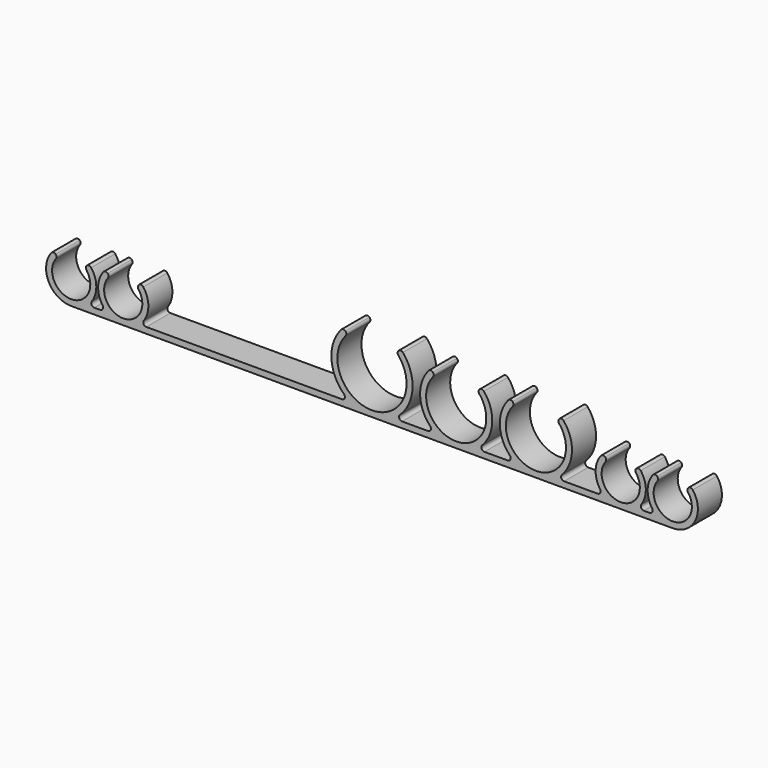
from build123d import *

# Parameters (mm, degrees)
F1_DEPTH = 10


with BuildPart() as f1:
    # F0 (on Front) → F1 (new body)
    with BuildSketch(Plane.XZ):
        with BuildLine():
            Line((-100, 0), (0, 0))
            Line((0, 0), (100, 0))
            ThreePointArc((100, 0), (107.478558, 4.636017), (106.652751, 13.396128))
            ThreePointArc((106.652751, 13.396128), (105.9242, 13.789474), (105.148908, 13.498908))
            ThreePointArc((105.148908, 13.498908), (104.858342, 12.859987), (105.059278, 12.187474))
            ThreePointArc((105.059278, 12.187474), (100, 2), (94.940722, 12.187474))
            ThreePointArc((94.940722, 12.187474), (95.141658, 12.859987), (94.851092, 13.498908))
            ThreePointArc((94.851092, 13.498908), (94.0758, 13.789474), (93.347249, 13.396128))
            ThreePointArc((93.347249, 13.396128), (91.651649, 8.515919), (93.152004, 3.572193))
            ThreePointArc((93.152004, 3.572193), (93.218505, 2.537503), (92.331884, 2))
            Line((92.331884, 2), (90.368116, 2))
            ThreePointArc((90.368116, 2), (89.481495, 2.537503), (89.547996, 3.572193))
            ThreePointArc((89.547996, 3.572193), (91.048351, 8.515919), (89.352751, 13.396128))
            ThreePointArc((89.352751, 13.396128), (88.6242, 13.789474), (87.848908, 13.498908))
            ThreePointArc((87.848908, 13.498908), (87.558342, 12.859987), (87.759278, 12.187474))
            ThreePointArc((87.759278, 12.187474), (82.7, 2), (77.640722, 12.187474))
            ThreePointArc((77.640722, 12.187474), (77.841658, 12.859987), (77.551092, 13.498908))
            ThreePointArc((77.551092, 13.498908), (76.7758, 13.789474), (76.047249, 13.396128))
            ThreePointArc((76.047249, 13.396128), (74.351649, 8.515919), (75.852004, 3.572193))
            ThreePointArc((75.852004, 3.572193), (75.918505, 2.537503), (75.031884, 2))
            Line((75.031884, 2), (63.880832, 2))
            ThreePointArc((63.880832, 2), (62.960965, 2.607768), (63.159229, 3.692308))
            ThreePointArc((63.159229, 3.692308), (66.492584, 11.578174), (63.721535, 19.678756))
            ThreePointArc((63.721535, 19.678756), (62.998575, 20.037824), (62.245967, 19.745967))
            ThreePointArc((62.245967, 19.745967), (61.954109, 19.084362), (62.184612, 18.398964))
            ThreePointArc((62.184612, 18.398964), (54.5, 2), (46.815388, 18.398964))
            ThreePointArc((46.815388, 18.398964), (47.045891, 19.084362), (46.754033, 19.745967))
            ThreePointArc((46.754033, 19.745967), (46.001425, 20.037824), (45.278465, 19.678756))
            ThreePointArc((45.278465, 19.678756), (42.507416, 11.578174), (45.840771, 3.692308))
            ThreePointArc((45.840771, 3.692308), (46.039035, 2.607768), (45.119168, 2))
            Line((45.119168, 2), (37.380832, 2))
            ThreePointArc((37.380832, 2), (36.460965, 2.607768), (36.659229, 3.692308))
            ThreePointArc((36.659229, 3.692308), (39.992584, 11.578174), (37.221535, 19.678756))
            ThreePointArc((37.221535, 19.678756), (36.498575, 20.037824), (35.745967, 19.745967))
            ThreePointArc((35.745967, 19.745967), (35.454109, 19.084362), (35.684612, 18.398964))
            ThreePointArc((35.684612, 18.398964), (28, 2), (20.315388, 18.398964))
            ThreePointArc((20.315388, 18.398964), (20.545891, 19.084362), (20.254033, 19.745967))
            ThreePointArc((20.254033, 19.745967), (19.501425, 20.037824), (18.778465, 19.678756))
            ThreePointArc((18.778465, 19.678756), (16.007416, 11.578174), (19.340771, 3.692308))
            ThreePointArc((19.340771, 3.692308), (19.539035, 2.607768), (18.619168, 2))
            Line((18.619168, 2), (10, 2))
            ThreePointArc((10, 2), (9.071523, 2.628609), (9.310345, 3.724138))
            ThreePointArc((9.310345, 3.724138), (13.481586, 12.795141), (10.279021, 22.25167))
            ThreePointArc((10.279021, 22.25167), (9.557644, 22.602597), (8.810505, 22.310505))
            ThreePointArc((8.810505, 22.310505), (8.518413, 21.64343), (8.756203, 20.955126))
            ThreePointArc((8.756203, 20.955126), (0, 2), (-8.756203, 20.955126))
            ThreePointArc((-8.756203, 20.955126), (-8.518413, 21.64343), (-8.810505, 22.310505))
            ThreePointArc((-8.810505, 22.310505), (-9.557644, 22.602597), (-10.279021, 22.25167))
            ThreePointArc((-10.279021, 22.25167), (-13.481586, 12.795141), (-9.310345, 3.724138))
            ThreePointArc((-9.310345, 3.724138), (-9.071523, 2.628609), (-10, 2))
            Line((-10, 2), (-75.031884, 2))
            ThreePointArc((-75.031884, 2), (-75.918505, 2.537503), (-75.852004, 3.572193))
            ThreePointArc((-75.852004, 3.572193), (-74.351649, 8.515919), (-76.047249, 13.396128))
            ThreePointArc((-76.047249, 13.396128), (-76.7758, 13.789474), (-77.551092, 13.498908))
            ThreePointArc((-77.551092, 13.498908), (-77.841658, 12.859987), (-77.640722, 12.187474))
            ThreePointArc((-77.640722, 12.187474), (-82.693985, 2.000003), (-87.766539, 12.177883))
            ThreePointArc((-87.766539, 12.177883), (-87.566811, 12.84983), (-87.857312, 13.487806))
            ThreePointArc((-87.857312, 13.487806), (-88.63355, 13.778306), (-89.362299, 13.383515))
            ThreePointArc((-89.362299, 13.383515), (-91.048505, 8.508011), (-89.547996, 3.572193))
            ThreePointArc((-89.547996, 3.572193), (-89.481495, 2.537503), (-90.368116, 2))
            Line((-90.368116, 2), (-92.331884, 2))
            ThreePointArc((-92.331884, 2), (-93.218505, 2.537503), (-93.152004, 3.572193))
            ThreePointArc((-93.152004, 3.572193), (-91.651649, 8.515919), (-93.347249, 13.396128))
            ThreePointArc((-93.347249, 13.396128), (-94.0758, 13.789474), (-94.851092, 13.498908))
            ThreePointArc((-94.851092, 13.498908), (-95.141658, 12.859987), (-94.940722, 12.187474))
            ThreePointArc((-94.940722, 12.187474), (-100, 2), (-105.059278, 12.187474))
            ThreePointArc((-105.059278, 12.187474), (-104.858342, 12.859987), (-105.148908, 13.498908))
            ThreePointArc((-105.148908, 13.498908), (-105.9242, 13.789474), (-106.652751, 13.396128))
            ThreePointArc((-106.652751, 13.396128), (-107.478558, 4.636017), (-100, 0))
        make_face()
    extrude(amount=F1_DEPTH)


solid = f1.part
